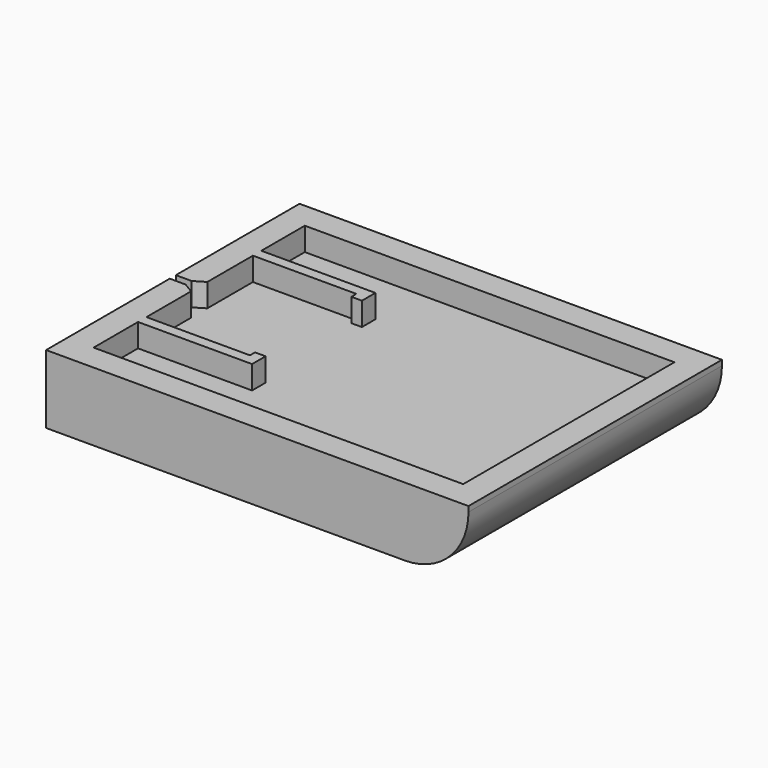
from build123d import *

# Parameters (mm, degrees)
F1_DEPTH = 75
F2_W     = 10
F2_H     = 12.5
F3_DEPTH = 11


with BuildPart() as f1:
    # F0 (on Front) → F1 (new body, symmetric)
    with BuildSketch(Plane.XZ):
        with BuildLine():
            Line((100, 13.75), (100, 16.25))
            Line((100, 16.25), (-100, 16.25))
            Line((-100, 16.25), (-100, -16.25))
            Line((-100, -16.25), (70, -16.25))
            ThreePointArc((70, -16.25), (91.2132034356, -7.4632034356), (100, 13.75))
        make_face()
    extrude(amount=F1_DEPTH, both=True)

    # F2 (on face) → F3 (cut)
    with BuildSketch(Plane.XY.offset(16.25)):
        Polygon((87.5, -62.5), (87.5, 62.5), (-87.5, 62.5), (-87.5, 36.7867040902), (-41, 36.7867040902), (-33.5, 36.7867040902), (-33.5, 28.7867040902), (-38.5, 28.7867040902), (-38.5, 31.7867040902), (-46, 31.7867040902), (-87.5, 31.7867040902), (-87.5, 4.8), (-92.5, 1.8), (-100, 1.8), (-100, -1.8), (-92.5, -1.8), (-87.5, -4.8), (-87.5, -31.2132959098), (-38.5, -31.2132959098), (-38.5, -28.2132959098), (-33.5, -28.2132959098), (-33.5, -36.2132959098), (-41, -36.2132959098), (-46, -36.2132959098), (-87.5, -36.2132959098), (-87.5, -62.5), (-77.5, -62.5), align=None)
        with BuildLine():
            Line((-77.3618234992, 52.5), (-74.3618234992, 52.5))
            Line((-74.3618234992, 52.5), (60.6381765008, 52.5))
            Line((60.6381765008, 52.5), (74.5, 52.5))
            Line((74.5, 52.5), (77.5, 52.5))
            Line((77.5, 52.5), (77.5, 49.5))
            Line((77.5, 49.5), (77.5, -52.5))
            Line((77.5, -52.5), (60.6381765008, -52.5))
            Line((60.6381765008, -52.5), (-77.5, -52.5))
            Line((-77.5, -52.5), (-77.5, -49.5))
            Line((-77.5, -49.5), (60.6381765008, -49.5))
            Line((60.6381765008, -49.5), (69.5, -49.5))
            ThreePointArc((69.5, -49.5), (73.0355339059, -48.0355339059), (74.5, -44.5))
            Line((74.5, -44.5), (74.5, 44.5))
            ThreePointArc((74.5, 44.5), (73.0355339059, 48.0355339059), (69.5, 49.5))
            Line((69.5, 49.5), (60.6381765008, 49.5))
            Line((60.6381765008, 49.5), (57.6381765008, 49.5))
            Line((57.6381765008, 49.5), (-74.3618234992, 49.5))
            Line((-74.3618234992, 49.5), (-77.3618234992, 49.5))
            Line((-77.3618234992, 49.5), (-77.3618234992, 52.5))
        make_face(mode=Mode.SUBTRACT)
        Polygon((40, -25), (40, 0), (40, 25), (40, 37.5), (50, 37.5), (50, 25), (50, -25), (50, -37.5), (40, -37.5), align=None, mode=Mode.SUBTRACT)
        with Locations((45, 31.25)):
            Rectangle(F2_W, F2_H)
        with Locations((45, -31.25)):
            Rectangle(F2_W, F2_H)
        Polygon((40, 25), (40, 0), (40, -25), (50, -25), (50, 25), align=None)
        with BuildLine():
            Line((60.6381765008, 52.5), (-74.3618234992, 52.5))
            Line((-74.3618234992, 52.5), (-77.3618234992, 52.5))
            Line((-77.3618234992, 52.5), (-77.3618234992, 49.5))
            Line((-77.3618234992, 49.5), (-74.3618234992, 49.5))
            Line((-74.3618234992, 49.5), (57.6381765008, 49.5))
            Line((57.6381765008, 49.5), (60.6381765008, 49.5))
            Line((60.6381765008, 49.5), (69.5, 49.5))
            ThreePointArc((69.5, 49.5), (73.0355339059, 48.0355339059), (74.5, 44.5))
            Line((74.5, 44.5), (74.5, -44.5))
            ThreePointArc((74.5, -44.5), (73.0355339059, -48.0355339059), (69.5, -49.5))
            Line((69.5, -49.5), (60.6381765008, -49.5))
            Line((60.6381765008, -49.5), (-77.5, -49.5))
            Line((-77.5, -49.5), (-77.5, -52.5))
            Line((-77.5, -52.5), (60.6381765008, -52.5))
            Line((60.6381765008, -52.5), (77.5, -52.5))
            Line((77.5, -52.5), (77.5, 49.5))
            Line((77.5, 49.5), (77.5, 52.5))
            Line((77.5, 52.5), (74.5, 52.5))
            Line((74.5, 52.5), (60.6381765008, 52.5))
        make_face()
    extrude(amount=-F3_DEPTH, mode=Mode.SUBTRACT)


solid = f1.part
